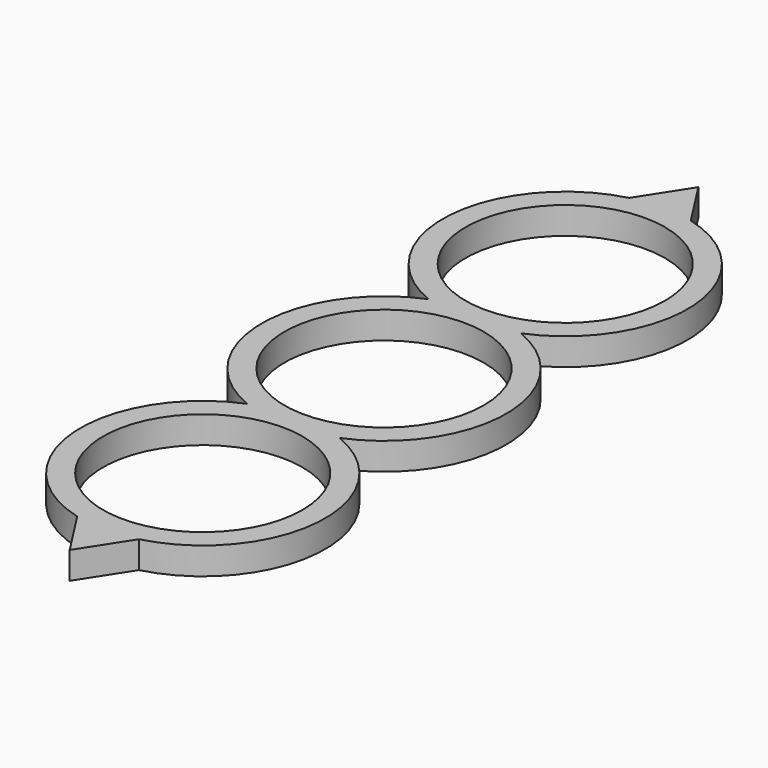
from build123d import *

# Parameters (mm, degrees)
F0_R     = 11
F1_DEPTH = 3


with BuildPart() as f1:
    # F0 (on Top) → F1 (new body)
    with BuildSketch(Plane.XY):
        with BuildLine():
            ThreePointArc((-3.402592, 38.064163), (-13.470374, 25.893888), (-5.09902, 12.5))
            ThreePointArc((-5.09902, 12.5), (-13.5, 0), (-5.09902, -12.5))
            ThreePointArc((-5.09902, -12.5), (-13.470374, -25.893888), (-3.402592, -38.064163))
            Line((-3.402592, -38.064163), (0, -43.350033))
            Line((0, -43.350033), (3.402592, -38.064163))
            ThreePointArc((3.402592, -38.064163), (13.470374, -25.893888), (5.09902, -12.5))
            ThreePointArc((5.09902, -12.5), (13.5, 0), (5.09902, 12.5))
            ThreePointArc((5.09902, 12.5), (13.470374, 25.893888), (3.402592, 38.064163))
            Line((3.402592, 38.064163), (0, 43.350033))
            Line((0, 43.350033), (-3.402592, 38.064163))
        make_face()
        with Locations((0, -25)):
            Circle(F0_R, mode=Mode.SUBTRACT)
        Circle(F0_R, mode=Mode.SUBTRACT)
        with Locations((0, 25)):
            Circle(F0_R, mode=Mode.SUBTRACT)
    extrude(amount=F1_DEPTH)


solid = f1.part
